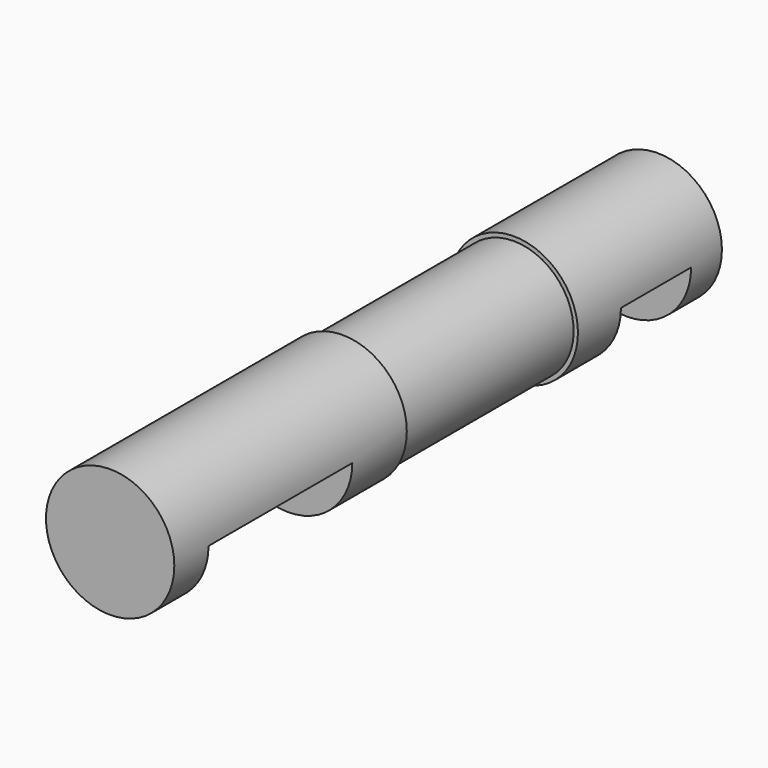
from build123d import *

# Parameters (mm, degrees)
F0_R     = 15
F1_DEPTH = 160
F2_W     = 40
F2_H     = 15
F2_W_2   = 18.5
F3_DEPTH = 15
F4_DEPTH = 12.5
F5_DEPTH = 2
F6_DEPTH = 1
F7_DEPTH = 1
F8_W     = 50
F8_H     = 1


with BuildPart() as f1:
    # F0 (on Front) → F1 (new body)
    with BuildSketch(Plane.XZ):
        Circle(F0_R)
        Circle(F0_R)
    extrude(amount=F1_DEPTH)

    # F2 (on Right) → F3 (cut, symmetric)
    with BuildSketch(Plane.YZ):
        with Locations((-130, -7.5)):
            Rectangle(F2_W, F2_H)
        with Locations((-19.25, -7.5)):
            Rectangle(F2_W_2, F2_H)
    extrude(amount=F3_DEPTH, both=True, mode=Mode.SUBTRACT)

    # F2 (on Right) → F4 (cut, symmetric)
    with BuildSketch(Plane.YZ):
        with Locations((-19.25, -7.5)):
            Rectangle(F2_W_2, F2_H)
        with Locations((-130, -7.5)):
            Rectangle(F2_W, F2_H)
    extrude(amount=F4_DEPTH, both=True, mode=Mode.SUBTRACT)

    # F5 (cut): a face of the model
    f5_faces = [f1.faces().sort_by_distance(p)[0] for p in [
        (0, -110, -6.3661977237),
    ]]
    extrude(f5_faces, amount=-F5_DEPTH, mode=Mode.SUBTRACT)

    # F6 (cut): a face of the model
    f6_faces = [f1.faces().sort_by_distance(p)[0] for p in [
        (0, -28.5, -6.3661977237),
    ]]
    extrude(f6_faces, amount=-F6_DEPTH, mode=Mode.SUBTRACT)

    # F7 (cut): a face of the model
    f7_faces = [f1.faces().sort_by_distance(p)[0] for p in [
        (0, -10, -6.3661977237),
    ]]
    extrude(f7_faces, amount=-F7_DEPTH, mode=Mode.SUBTRACT)

    # F8 (on Right) → F9 (revolve, cut)
    with BuildSketch(Plane.YZ):
        with Locations((-67.068171382, 14.5)):
            Rectangle(F8_W, F8_H)
    revolve(axis=Axis((0, -80.4968252778, 0), (0, -1, 0)), mode=Mode.SUBTRACT)


solid = f1.part
